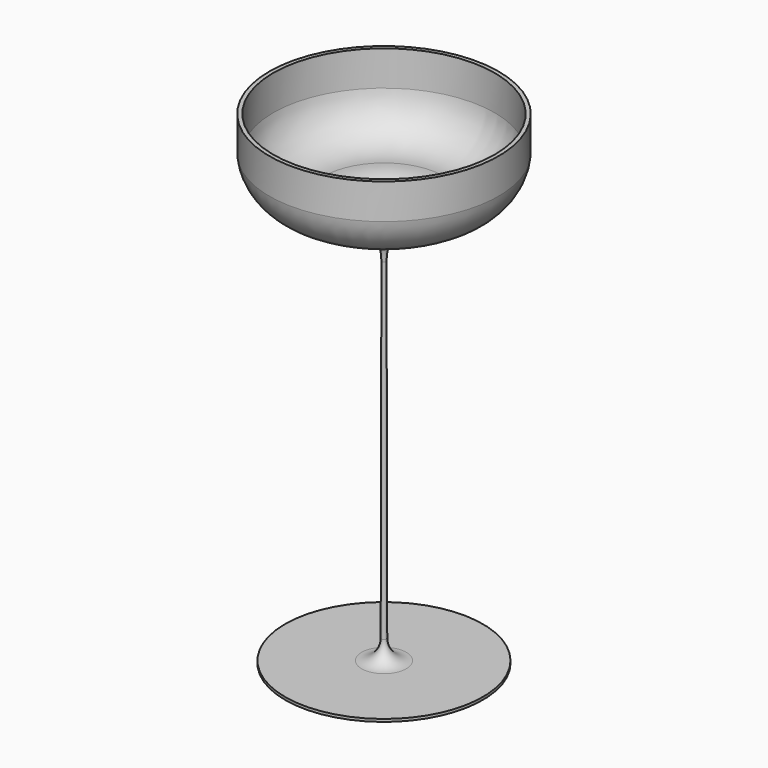
from build123d import *


with BuildPart() as f1:
    # F0 (on Front) → F1 (revolve)
    with BuildSketch(Plane.XZ):
        with BuildLine():
            Line((-5.650618, -121.757137), (-25, -121.757137))
            Line((-25, -121.757137), (-25, -122.426015))
            Line((-25, -122.426015), (0, -122.426015))
            Line((0, -122.426015), (0, -33.42589))
            Line((0, -33.42589), (0, -29.064167))
            ThreePointArc((0, -29.064167), (-5.699143, -21.124112), (-15.205665, -18.854587))
            ThreePointArc((-15.205665, -18.854587), (-23.672524, -16.509613), (-28, -8.863728))
            Line((-28, -8.863728), (-28, 0))
            Line((-28, 0), (-29, 0))
            Line((-29, 0), (-29, -8.923646))
            ThreePointArc((-29, -8.923646), (-24.312583, -17.278522), (-15.083371, -19.84708))
            ThreePointArc((-15.083371, -19.84708), (-4.884612, -23.014986), (-0.50959, -32.757137))
            Line((-0.50959, -32.757137), (-0.650625, -116.765531))
            ThreePointArc((-0.650625, -116.765531), (-2.118053, -120.295637), (-5.650618, -121.757137))
        make_face()
    revolve(axis=Axis((0, 0, -77.925953), (0, 0, -1)))


solid = f1.part
